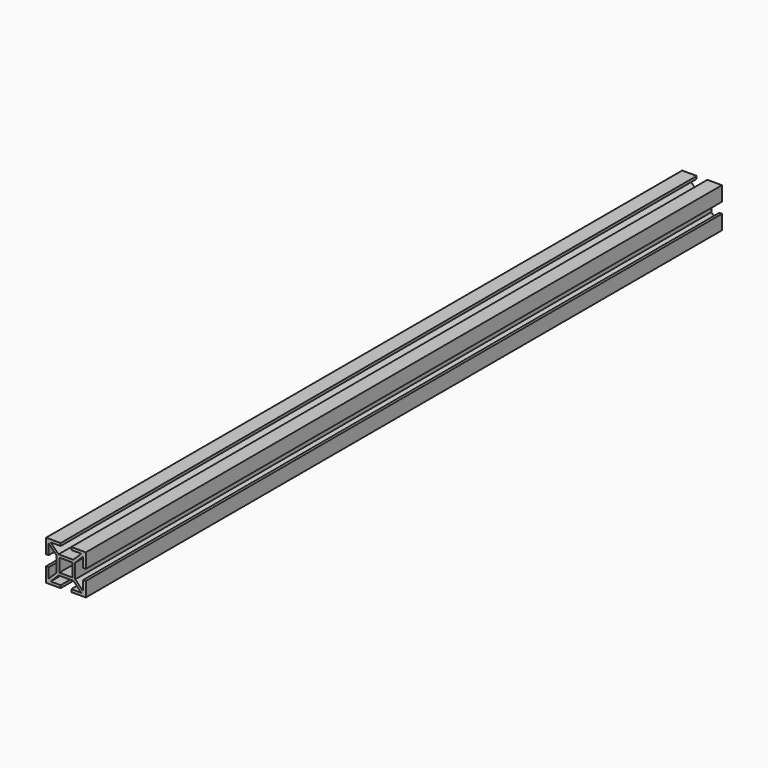
from build123d import *

# Parameters (mm, degrees)
F1_W     = 10
F1_H     = 10
F2_DEPTH = 600


with BuildPart() as f2:
    # F1 (on Front) → F2 (new body)
    with BuildSketch(Plane.XZ):
        Polygon((-13, 4), (-13, 11.6472616792), (-13, 13), (-11.5857864376, 13), (-4, 13), (-4, 15), (-15, 15), (-15, 4), align=None)
        Polygon((-13, 11.6472616792), (-7, 5.6472616792), (-7, 7), (-5.5857864376, 7), (-11.5857864376, 13), (-13, 13), align=None)
        Polygon((13, 13), (13, 11.5857864376), (13, 4), (15, 4), (15, 15), (4, 15), (4, 13), (11.5857864376, 13), align=None)
        Polygon((7, 7), (7, 5.5857864376), (13, 11.5857864376), (13, 13), (11.5857864376, 13), (5.5857864376, 7), align=None)
        Polygon((5.5857864376, -7), (7, -7), (7, -5.5857864376), (7, 5.5857864376), (7, 7), (5.5857864376, 7), (-5.5857864376, 7), (-7, 7), (-7, 5.6472616792), (-7, -5.5857864376), (-7, -7), (-5.5857864376, -7), align=None)
        Rectangle(F1_W, F1_H, mode=Mode.SUBTRACT)
        Polygon((13, -13), (11.5857864376, -13), (4, -13), (4, -15), (15, -15), (15, -4), (13, -4), (13, -11.5857864376), align=None)
        Polygon((7, -5.5857864376), (7, -7), (5.5857864376, -7), (11.5857864376, -13), (13, -13), (13, -11.5857864376), align=None)
        Polygon((-4, -13), (-11.5857864376, -13), (-13, -13), (-13, -11.5857864376), (-13, -4), (-15, -4), (-15, -15), (-4, -15), align=None)
        Polygon((-11.5857864376, -13), (-5.5857864376, -7), (-7, -7), (-7, -5.5857864376), (-13, -11.5857864376), (-13, -13), align=None)
    extrude(amount=F2_DEPTH)


solid = f2.part
